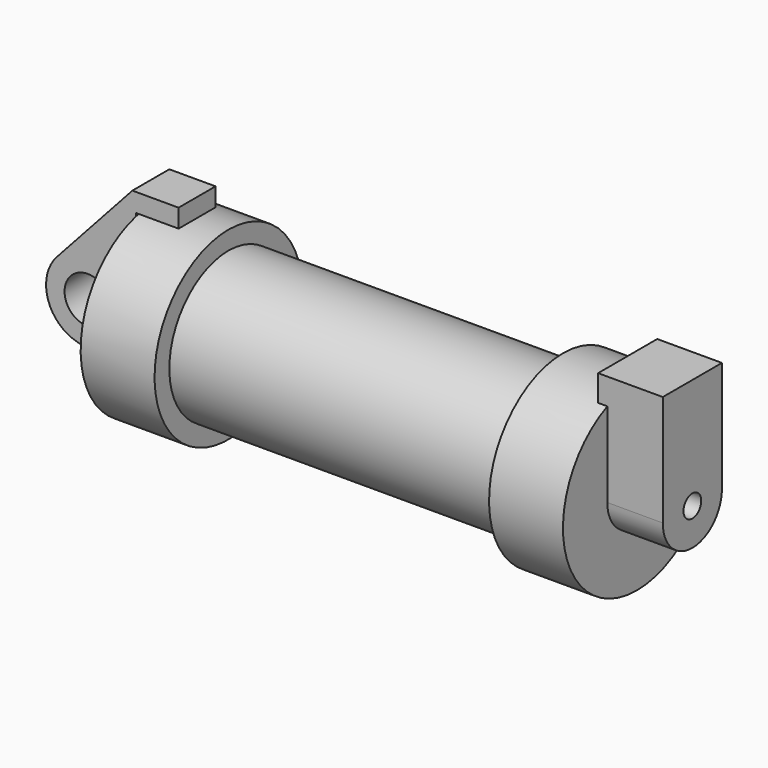
from build123d import *

# Parameters (mm, degrees)
F0_W     = 5.842
F0_H     = 12.7
F0_R     = 3.175
F2_DEPTH = 3.175
F4_DEPTH = 1.27
F3_R     = 1.524
F5_DEPTH = 7.62


with BuildPart() as f1:
    # F0 (on Front) → F1 (revolve)
    with BuildSketch(Plane.XZ):
        Polygon((5.842, 12.7), (5.842, 0), (66.294, 0), (66.294, 12.7), (56.134, 12.7), (56.134, 10.16), (10.16, 10.16), (10.16, 12.7), align=None)
        with Locations((2.921, 6.35)):
            Rectangle(F0_W, F0_H)
    revolve(axis=Axis((33.147, 0, 0), (-1, 0, 0)))

    # F3 (on face) → F4 (join)
    with BuildSketch(Plane.YZ.offset(66.294)):
        with BuildLine():
            ThreePointArc((-5.08, 11.639742), (-0.000107, 12.7), (5.079804, 11.639828))
            Line((5.079804, 11.639828), (5.079743, 15.24))
            Line((5.079743, 15.24), (-5.08, 15.24))
            Line((-5.08, 15.24), (-5.08, 11.639742))
        make_face()
    extrude(amount=-F4_DEPTH)

    # F3 (on face) → F5 (join)
    with BuildSketch(Plane.YZ.offset(66.294)):
        with BuildLine():
            ThreePointArc((-5.08, 0), (0, -5.08), (5.08, 0))
            ThreePointArc((5.08, 0), (0, 5.08), (-5.08, 0))
        make_face()
        Circle(F3_R, mode=Mode.SUBTRACT)
        with BuildLine():
            ThreePointArc((-5.08, 0), (0, 5.08), (5.08, 0))
            Line((5.08, 0), (5.079743, 15.24))
            Line((5.079743, 15.24), (-5.08, 15.24))
            Line((-5.08, 15.24), (-5.08, 0))
        make_face()
    extrude(amount=F5_DEPTH)


with BuildPart() as f2:
    # F0 (on Front) → F2 (new body, symmetric)
    with BuildSketch(Plane.XZ):
        with BuildLine():
            ThreePointArc((-8.182663, -5.506983), (-3.195791, -4.549339), (-0.9398, 0))
            ThreePointArc((-0.9398, 0), (-4.591961, 5.329721), (-10.88063, 3.847543))
            ThreePointArc((-10.88063, 3.847543), (-12.145978, -1.583727), (-8.182663, -5.506983))
        make_face()
        with Locations((-6.6548, 0)):
            Circle(F0_R, mode=Mode.SUBTRACT)
        with BuildLine():
            Line((-0.9398, 0), (0, 0))
            Line((0, 0), (0, 12.7))
            Line((0, 12.7), (5.842, 12.7))
            Line((5.842, 12.7), (5.842, 15.24))
            Line((5.842, 15.24), (-0.508, 15.24))
            Line((-0.508, 15.24), (-10.88063, 3.847543))
            ThreePointArc((-10.88063, 3.847543), (-4.591961, 5.329721), (-0.9398, 0))
        make_face()
        with BuildLine():
            Line((5.842, 0), (0, 0))
            Line((0, 0), (-0.9398, 0))
            ThreePointArc((-0.9398, 0), (-3.195791, -4.549339), (-8.182663, -5.506983))
            Line((-8.182663, -5.506983), (5.842, -9.398))
            Line((5.842, -9.398), (5.842, 0))
        make_face()
    extrude(amount=F2_DEPTH, both=True)


solid = Compound([f1.part, f2.part])
